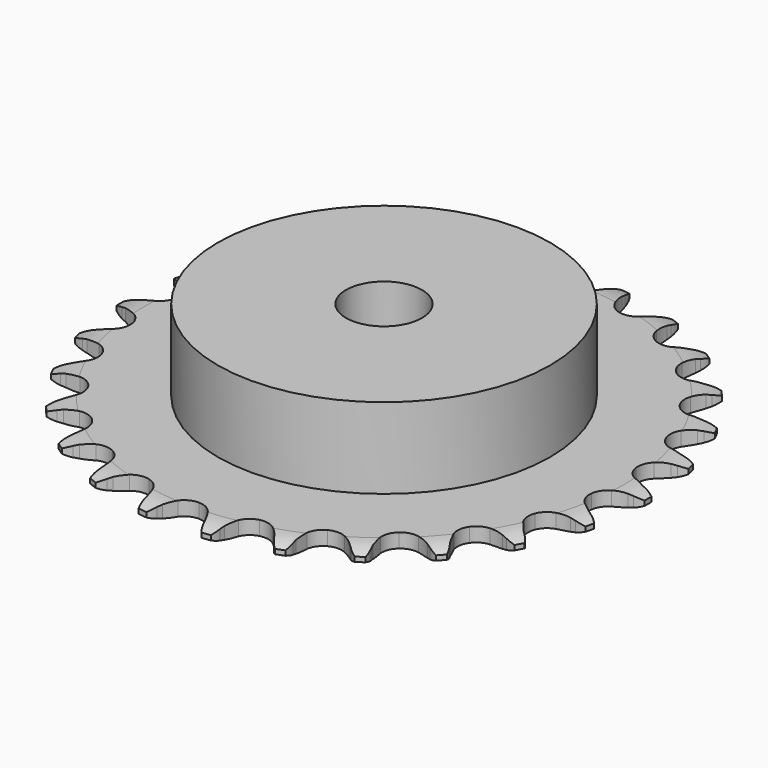
from build123d import *

# Parameters (mm, degrees)
PAD_DEPTH         = 3
SKETCH001_R       = 35
PAD001_DEPTH      = 20
SKETCH002_R       = 8
POCKET_DEPTH      = 0.001
POCKET_DEPTH_BACK = 20.001


with BuildPart() as part:
    # Sprocket → Pad (new body)
    with BuildSketch(Plane.XY):
        with BuildLine():
            ThreePointArc((-6.841081, 56.341371), (-5.682731, 55.146352), (-4.875613, 53.690878))
            Line((-4.875613, 53.690878), (-4.498492, 52.731614))
            ThreePointArc((-4.498492, 52.731614), (-3.897456, 51.46715), (-3.12786, 50.297605))
            ThreePointArc((-3.12786, 50.297605), (-1.745206, 49.157054), (0, 48.748584))
            ThreePointArc((0, 48.748584), (1.745206, 49.157054), (3.12786, 50.297605))
            ThreePointArc((3.12786, 50.297605), (3.897456, 51.46715), (4.498492, 52.731614))
            Line((4.498492, 52.731614), (4.875613, 53.690878))
            ThreePointArc((4.875613, 53.690878), (5.682731, 55.146352), (6.841081, 56.341371))
            ThreePointArc((6.841081, 56.341371), (7.679784, 54.903866), (8.115132, 53.297529))
            Line((8.115132, 53.297529), (8.251727, 52.275889))
            ThreePointArc((8.251727, 52.275889), (8.532692, 50.90433), (9.000035, 49.584594))
            ThreePointArc((9.000035, 49.584594), (10.06956, 48.146294), (11.6663, 47.332039))
            ThreePointArc((11.6663, 47.332039), (13.458546, 47.310984), (15.073974, 48.087502))
            Line((15.073974, 48.087502), (16.987276, 50.12277))
            ThreePointArc((16.987276, 50.12277), (17.274437, 50.550919), (17.583004, 50.963908))
            ThreePointArc((17.583004, 50.963908), (18.714987, 52.183933), (20.125664, 53.067015))
            ThreePointArc((20.125664, 53.067015), (20.595979, 51.470567), (20.634254, 49.806722))
            Line((20.634254, 49.806722), (20.522386, 48.782079))
            ThreePointArc((20.522386, 48.782079), (20.466951, 47.383136), (20.60488, 45.989906))
            ThreePointArc((20.60488, 45.989906), (21.299119, 44.337447), (22.654597, 43.164728))
            ThreePointArc((22.654597, 43.164728), (24.389725, 42.715372), (26.144045, 43.082729))
            Line((26.144045, 43.082729), (28.48882, 44.600972))
            ThreePointArc((28.48882, 44.600972), (28.8701, 44.947958), (29.268536, 45.275101))
            ThreePointArc((29.268536, 45.275101), (30.659596, 46.188773), (32.240617, 46.708598))
            ThreePointArc((32.240617, 46.708598), (32.31521, 45.045985), (31.954189, 43.421329))
            Line((31.954189, 43.421329), (31.600358, 42.453232))
            ThreePointArc((31.600358, 42.453232), (31.211745, 41.108207), (31.012245, 39.722453))
            ThreePointArc((31.012245, 39.722453), (31.290851, 37.951868), (32.326291, 36.488839))
            ThreePointArc((32.326291, 36.488839), (33.903461, 35.637297), (35.694718, 35.574143))
            Line((35.694718, 35.574143), (38.334698, 36.487128))
            ThreePointArc((38.334698, 36.487128), (38.787938, 36.732784), (39.253086, 36.95507))
            ThreePointArc((39.253086, 36.95507), (40.822381, 37.509289), (42.481862, 37.635646))
            ThreePointArc((42.481862, 37.635646), (42.156399, 36.003495), (41.417063, 34.512446))
            Line((41.417063, 34.512446), (40.841833, 33.657158))
            ThreePointArc((40.841833, 33.657158), (40.142627, 32.444217), (39.617291, 31.146474))
            ThreePointArc((39.617291, 31.146474), (39.464072, 29.360665), (40.119298, 27.692352))
            ThreePointArc((40.119298, 27.692352), (41.446852, 26.488113), (43.170944, 25.998118))
            Line((43.170944, 25.998118), (45.952703, 26.252784))
            ThreePointArc((45.952703, 26.252784), (46.451562, 26.382835), (46.95639, 26.487344))
            ThreePointArc((46.95639, 26.487344), (48.612717, 26.649902), (50.254216, 26.375447))
            ThreePointArc((50.254216, 26.375447), (49.54761, 24.868612), (48.472927, 23.597825))
            Line((48.472927, 23.597825), (47.709728, 22.905052))
            ThreePointArc((47.709728, 22.905052), (46.740564, 21.894688), (45.919923, 20.760376))
            ThreePointArc((45.919923, 20.760376), (45.343785, 19.063127), (45.580718, 17.286486))
            ThreePointArc((45.580718, 17.286486), (46.581502, 15.799536), (48.138232, 14.911177))
            Line((48.138232, 14.911177), (50.900103, 14.492725))
            ThreePointArc((50.900103, 14.492725), (51.41559, 14.499612), (51.930759, 14.480271))
            ThreePointArc((51.930759, 14.480271), (53.577859, 14.24172), (55.105978, 13.582404))
            ThreePointArc((55.105978, 13.582404), (54.059295, 12.288456), (52.711721, 11.311784))
            Line((52.711721, 11.311784), (51.804908, 10.821787))
            ThreePointArc((51.804908, 10.821787), (50.62211, 10.072719), (49.553857, 9.16776))
            ThreePointArc((49.553857, 9.16776), (48.588282, 7.657709), (48.393152, 5.875993))
            ThreePointArc((48.393152, 5.875993), (49.009005, 4.192747), (50.307901, 2.957652))
            Line((50.307901, 2.957652), (52.889375, 1.8904))
            ThreePointArc((52.889375, 1.8904), (53.39153, 1.773723), (53.887101, 1.631656))
            ThreePointArc((53.887101, 1.631656), (55.429251, 1.00586), (56.75518, 0))
            ThreePointArc((56.75518, 0), (55.429251, -1.00586), (53.887101, -1.631656))
            Line((53.887101, -1.631656), (52.889375, -1.8904))
            ThreePointArc((52.889375, -1.8904), (51.561683, -2.33464), (50.307901, -2.957652))
            ThreePointArc((50.307901, -2.957652), (49.009005, -4.192747), (48.393152, -5.875993))
            ThreePointArc((48.393152, -5.875993), (48.588282, -7.657709), (49.553857, -9.16776))
            Line((49.553857, -9.16776), (51.804908, -10.821787))
            ThreePointArc((51.804908, -10.821787), (52.264549, -11.055247), (52.711721, -11.311784))
            ThreePointArc((52.711721, -11.311784), (54.059295, -12.288456), (55.105978, -13.582404))
            ThreePointArc((55.105978, -13.582404), (53.577859, -14.24172), (51.930759, -14.480271))
            Line((51.930759, -14.480271), (50.900103, -14.492725))
            ThreePointArc((50.900103, -14.492725), (49.504678, -14.606318), (48.138232, -14.911177))
            ThreePointArc((48.138232, -14.911177), (46.581502, -15.799536), (45.580718, -17.286486))
            ThreePointArc((45.580718, -17.286486), (45.343785, -19.063127), (45.919923, -20.760376))
            Line((45.919923, -20.760376), (47.709728, -22.905052))
            ThreePointArc((47.709728, -22.905052), (48.100143, -23.241727), (48.472927, -23.597825))
            ThreePointArc((48.472927, -23.597825), (49.54761, -24.868612), (50.254216, -26.375447))
            ThreePointArc((50.254216, -26.375447), (48.612717, -26.649902), (46.95639, -26.487344))
            Line((46.95639, -26.487344), (45.952703, -26.252784))
            ThreePointArc((45.952703, -26.252784), (44.570642, -26.02913), (43.170944, -25.998118))
            ThreePointArc((43.170944, -25.998118), (41.446852, -26.488113), (40.119298, -27.692352))
            ThreePointArc((40.119298, -27.692352), (39.464072, -29.360665), (39.617291, -31.146474))
            Line((39.617291, -31.146474), (40.841833, -33.657158))
            ThreePointArc((40.841833, -33.657158), (41.14033, -34.077483), (41.417063, -34.512446))
            ThreePointArc((41.417063, -34.512446), (42.156399, -36.003495), (42.481862, -37.635646))
            ThreePointArc((42.481862, -37.635646), (40.822381, -37.509289), (39.253086, -36.95507))
            Line((39.253086, -36.95507), (38.334698, -36.487128))
            ThreePointArc((38.334698, -36.487128), (37.046321, -35.939223), (35.694718, -35.574143))
            ThreePointArc((35.694718, -35.574143), (33.903461, -35.637297), (32.326291, -36.488839))
            ThreePointArc((32.326291, -36.488839), (31.290851, -37.951868), (31.012245, -39.722453))
            Line((31.012245, -39.722453), (31.600358, -42.453232))
            ThreePointArc((31.600358, -42.453232), (31.789592, -42.932778), (31.954189, -43.421329))
            ThreePointArc((31.954189, -43.421329), (32.31521, -45.045985), (32.240617, -46.708598))
            ThreePointArc((32.240617, -46.708598), (30.659596, -46.188773), (29.268536, -45.275101))
            Line((29.268536, -45.275101), (28.48882, -44.600972))
            ThreePointArc((28.48882, -44.600972), (27.369003, -43.76066), (26.144045, -43.082729))
            ThreePointArc((26.144045, -43.082729), (24.389725, -42.715372), (22.654597, -43.164728))
            ThreePointArc((22.654597, -43.164728), (21.299119, -44.337447), (20.60488, -45.989906))
            Line((20.60488, -45.989906), (20.522386, -48.782079))
            ThreePointArc((20.522386, -48.782079), (20.591358, -49.292977), (20.634254, -49.806722))
            ThreePointArc((20.634254, -49.806722), (20.595979, -51.470567), (20.125664, -53.067015))
            ThreePointArc((20.125664, -53.067015), (18.714987, -52.183933), (17.583004, -50.963908))
            Line((17.583004, -50.963908), (16.987276, -50.12277))
            ThreePointArc((16.987276, -50.12277), (16.101099, -49.038886), (15.073974, -48.087502))
            ThreePointArc((15.073974, -48.087502), (13.458546, -47.310984), (11.6663, -47.332039))
            ThreePointArc((11.6663, -47.332039), (10.06956, -48.146294), (9.000035, -49.584594))
            Line((9.000035, -49.584594), (8.251727, -52.275889))
            ThreePointArc((8.251727, -52.275889), (8.196429, -52.788447), (8.115132, -53.297529))
            ThreePointArc((8.115132, -53.297529), (7.679784, -54.903866), (6.841081, -56.341371))
            ThreePointArc((6.841081, -56.341371), (5.682731, -55.146352), (4.875613, -53.690878))
            Line((4.875613, -53.690878), (4.498492, -52.731614))
            ThreePointArc((4.498492, -52.731614), (3.897456, -51.46715), (3.12786, -50.297605))
            ThreePointArc((3.12786, -50.297605), (1.745206, -49.157054), (0, -48.748584))
            ThreePointArc((0, -48.748584), (-1.745206, -49.157054), (-3.12786, -50.297605))
            Line((-3.12786, -50.297605), (-4.498492, -52.731614))
            ThreePointArc((-4.498492, -52.731614), (-4.674847, -53.216045), (-4.875613, -53.690878))
            ThreePointArc((-4.875613, -53.690878), (-5.682731, -55.146352), (-6.841081, -56.341371))
            ThreePointArc((-6.841081, -56.341371), (-7.679784, -54.903866), (-8.115132, -53.297529))
            Line((-8.115132, -53.297529), (-8.251727, -52.275889))
            ThreePointArc((-8.251727, -52.275889), (-8.532692, -50.90433), (-9.000035, -49.584594))
            ThreePointArc((-9.000035, -49.584594), (-10.06956, -48.146294), (-11.6663, -47.332039))
            ThreePointArc((-11.6663, -47.332039), (-13.458546, -47.310984), (-15.073974, -48.087502))
            Line((-15.073974, -48.087502), (-16.987276, -50.12277))
            ThreePointArc((-16.987276, -50.12277), (-17.274437, -50.550919), (-17.583004, -50.963908))
            ThreePointArc((-17.583004, -50.963908), (-18.714987, -52.183933), (-20.125664, -53.067015))
            ThreePointArc((-20.125664, -53.067015), (-20.595979, -51.470567), (-20.634254, -49.806722))
            Line((-20.634254, -49.806722), (-20.522386, -48.782079))
            ThreePointArc((-20.522386, -48.782079), (-20.466951, -47.383136), (-20.60488, -45.989906))
            ThreePointArc((-20.60488, -45.989906), (-21.299119, -44.337447), (-22.654597, -43.164728))
            ThreePointArc((-22.654597, -43.164728), (-24.389725, -42.715372), (-26.144045, -43.082729))
            Line((-26.144045, -43.082729), (-28.48882, -44.600972))
            ThreePointArc((-28.48882, -44.600972), (-28.8701, -44.947958), (-29.268536, -45.275101))
            ThreePointArc((-29.268536, -45.275101), (-30.659596, -46.188773), (-32.240617, -46.708598))
            ThreePointArc((-32.240617, -46.708598), (-32.31521, -45.045985), (-31.954189, -43.421329))
            Line((-31.954189, -43.421329), (-31.600358, -42.453232))
            ThreePointArc((-31.600358, -42.453232), (-31.211745, -41.108207), (-31.012245, -39.722453))
            ThreePointArc((-31.012245, -39.722453), (-31.290851, -37.951868), (-32.326291, -36.488839))
            ThreePointArc((-32.326291, -36.488839), (-33.903461, -35.637297), (-35.694718, -35.574143))
            Line((-35.694718, -35.574143), (-38.334698, -36.487128))
            ThreePointArc((-38.334698, -36.487128), (-38.787938, -36.732784), (-39.253086, -36.95507))
            ThreePointArc((-39.253086, -36.95507), (-40.822381, -37.509289), (-42.481862, -37.635646))
            ThreePointArc((-42.481862, -37.635646), (-42.156399, -36.003495), (-41.417063, -34.512446))
            Line((-41.417063, -34.512446), (-40.841833, -33.657158))
            ThreePointArc((-40.841833, -33.657158), (-40.142627, -32.444217), (-39.617291, -31.146474))
            ThreePointArc((-39.617291, -31.146474), (-39.464072, -29.360665), (-40.119298, -27.692352))
            ThreePointArc((-40.119298, -27.692352), (-41.446852, -26.488113), (-43.170944, -25.998118))
            Line((-43.170944, -25.998118), (-45.952703, -26.252784))
            ThreePointArc((-45.952703, -26.252784), (-46.451562, -26.382835), (-46.95639, -26.487344))
            ThreePointArc((-46.95639, -26.487344), (-48.612717, -26.649902), (-50.254216, -26.375447))
            ThreePointArc((-50.254216, -26.375447), (-49.54761, -24.868612), (-48.472927, -23.597825))
            Line((-48.472927, -23.597825), (-47.709728, -22.905052))
            ThreePointArc((-47.709728, -22.905052), (-46.740564, -21.894688), (-45.919923, -20.760376))
            ThreePointArc((-45.919923, -20.760376), (-45.343785, -19.063127), (-45.580718, -17.286486))
            ThreePointArc((-45.580718, -17.286486), (-46.581502, -15.799536), (-48.138232, -14.911177))
            Line((-48.138232, -14.911177), (-50.900103, -14.492725))
            ThreePointArc((-50.900103, -14.492725), (-51.41559, -14.499612), (-51.930759, -14.480271))
            ThreePointArc((-51.930759, -14.480271), (-53.577859, -14.24172), (-55.105978, -13.582404))
            ThreePointArc((-55.105978, -13.582404), (-54.059295, -12.288456), (-52.711721, -11.311784))
            Line((-52.711721, -11.311784), (-51.804908, -10.821787))
            ThreePointArc((-51.804908, -10.821787), (-50.62211, -10.072719), (-49.553857, -9.16776))
            ThreePointArc((-49.553857, -9.16776), (-48.588282, -7.657709), (-48.393152, -5.875993))
            ThreePointArc((-48.393152, -5.875993), (-49.009005, -4.192747), (-50.307901, -2.957652))
            Line((-50.307901, -2.957652), (-52.889375, -1.8904))
            ThreePointArc((-52.889375, -1.8904), (-53.39153, -1.773723), (-53.887101, -1.631656))
            ThreePointArc((-53.887101, -1.631656), (-55.429251, -1.00586), (-56.75518, 0))
            ThreePointArc((-56.75518, 0), (-55.429251, 1.00586), (-53.887101, 1.631656))
            Line((-53.887101, 1.631656), (-52.889375, 1.8904))
            ThreePointArc((-52.889375, 1.8904), (-51.561683, 2.33464), (-50.307901, 2.957652))
            ThreePointArc((-50.307901, 2.957652), (-49.009005, 4.192747), (-48.393152, 5.875993))
            ThreePointArc((-48.393152, 5.875993), (-48.588282, 7.657709), (-49.553857, 9.16776))
            Line((-49.553857, 9.16776), (-51.804908, 10.821787))
            ThreePointArc((-51.804908, 10.821787), (-52.264549, 11.055247), (-52.711721, 11.311784))
            ThreePointArc((-52.711721, 11.311784), (-54.059295, 12.288456), (-55.105978, 13.582404))
            ThreePointArc((-55.105978, 13.582404), (-53.577859, 14.24172), (-51.930759, 14.480271))
            Line((-51.930759, 14.480271), (-50.900103, 14.492725))
            ThreePointArc((-50.900103, 14.492725), (-49.504678, 14.606318), (-48.138232, 14.911177))
            ThreePointArc((-48.138232, 14.911177), (-46.581502, 15.799536), (-45.580718, 17.286486))
            ThreePointArc((-45.580718, 17.286486), (-45.343785, 19.063127), (-45.919923, 20.760376))
            Line((-45.919923, 20.760376), (-47.709728, 22.905052))
            ThreePointArc((-47.709728, 22.905052), (-48.100143, 23.241727), (-48.472927, 23.597825))
            ThreePointArc((-48.472927, 23.597825), (-49.54761, 24.868612), (-50.254216, 26.375447))
            ThreePointArc((-50.254216, 26.375447), (-48.612717, 26.649902), (-46.95639, 26.487344))
            Line((-46.95639, 26.487344), (-45.952703, 26.252784))
            ThreePointArc((-45.952703, 26.252784), (-44.570642, 26.02913), (-43.170944, 25.998118))
            ThreePointArc((-43.170944, 25.998118), (-41.446852, 26.488113), (-40.119298, 27.692352))
            ThreePointArc((-40.119298, 27.692352), (-39.464072, 29.360665), (-39.617291, 31.146474))
            Line((-39.617291, 31.146474), (-40.841833, 33.657158))
            ThreePointArc((-40.841833, 33.657158), (-41.14033, 34.077483), (-41.417063, 34.512446))
            ThreePointArc((-41.417063, 34.512446), (-42.156399, 36.003495), (-42.481862, 37.635646))
            ThreePointArc((-42.481862, 37.635646), (-40.822381, 37.509289), (-39.253086, 36.95507))
            Line((-39.253086, 36.95507), (-38.334698, 36.487128))
            ThreePointArc((-38.334698, 36.487128), (-37.046321, 35.939223), (-35.694718, 35.574143))
            ThreePointArc((-35.694718, 35.574143), (-33.903461, 35.637297), (-32.326291, 36.488839))
            ThreePointArc((-32.326291, 36.488839), (-31.290851, 37.951868), (-31.012245, 39.722453))
            Line((-31.012245, 39.722453), (-31.600358, 42.453232))
            ThreePointArc((-31.600358, 42.453232), (-31.789592, 42.932778), (-31.954189, 43.421329))
            ThreePointArc((-31.954189, 43.421329), (-32.31521, 45.045985), (-32.240617, 46.708598))
            ThreePointArc((-32.240617, 46.708598), (-30.659596, 46.188773), (-29.268536, 45.275101))
            Line((-29.268536, 45.275101), (-28.48882, 44.600972))
            ThreePointArc((-28.48882, 44.600972), (-27.369003, 43.76066), (-26.144045, 43.082729))
            ThreePointArc((-26.144045, 43.082729), (-24.389725, 42.715372), (-22.654597, 43.164728))
            ThreePointArc((-22.654597, 43.164728), (-21.299119, 44.337447), (-20.60488, 45.989906))
            Line((-20.60488, 45.989906), (-20.522386, 48.782079))
            ThreePointArc((-20.522386, 48.782079), (-20.591358, 49.292977), (-20.634254, 49.806722))
            ThreePointArc((-20.634254, 49.806722), (-20.595979, 51.470567), (-20.125664, 53.067015))
            ThreePointArc((-20.125664, 53.067015), (-18.714987, 52.183933), (-17.583004, 50.963908))
            Line((-17.583004, 50.963908), (-16.987276, 50.12277))
            ThreePointArc((-16.987276, 50.12277), (-16.101099, 49.038886), (-15.073974, 48.087502))
            ThreePointArc((-15.073974, 48.087502), (-13.458546, 47.310984), (-11.6663, 47.332039))
            ThreePointArc((-11.6663, 47.332039), (-10.06956, 48.146294), (-9.000035, 49.584594))
            Line((-9.000035, 49.584594), (-8.251727, 52.275889))
            ThreePointArc((-8.251727, 52.275889), (-8.196429, 52.788447), (-8.115132, 53.297529))
            ThreePointArc((-8.115132, 53.297529), (-7.679784, 54.903866), (-6.841081, 56.341371))
        make_face()
    extrude(amount=PAD_DEPTH)

    # Sketch → Groove (revolve, cut)
    with BuildSketch(Plane.XZ):
        with BuildLine():
            Line((50.6, 0), (55.6, 0))
            Line((60.6, 0), (55.6, 0))
            Line((60.6, 3), (60.6, 0))
            Line((55.6, 3), (60.6, 3))
            Line((50.6, 3), (55.6, 3))
            ThreePointArc((55.6, 2), (53.14951, 2.747549), (50.6, 3))
            Line((55.6, 1), (55.6, 2))
            ThreePointArc((50.6, 0), (53.14951, 0.252451), (55.6, 1))
        make_face()
    revolve(axis=Axis((0, 0, 0), (0, 0, 1)), mode=Mode.SUBTRACT)

    # Sketch001 → Pad001 (join)
    with BuildSketch(Plane.XY):
        Circle(SKETCH001_R)
    extrude(amount=PAD001_DEPTH)

    # Sketch002 → Pocket (cut, two sides)
    with BuildSketch(Plane.XY) as pocket_sk:
        Circle(SKETCH002_R)
    extrude(amount=-POCKET_DEPTH, mode=Mode.SUBTRACT)
    extrude(pocket_sk.sketch, amount=POCKET_DEPTH_BACK, mode=Mode.SUBTRACT)


solid = part.part
